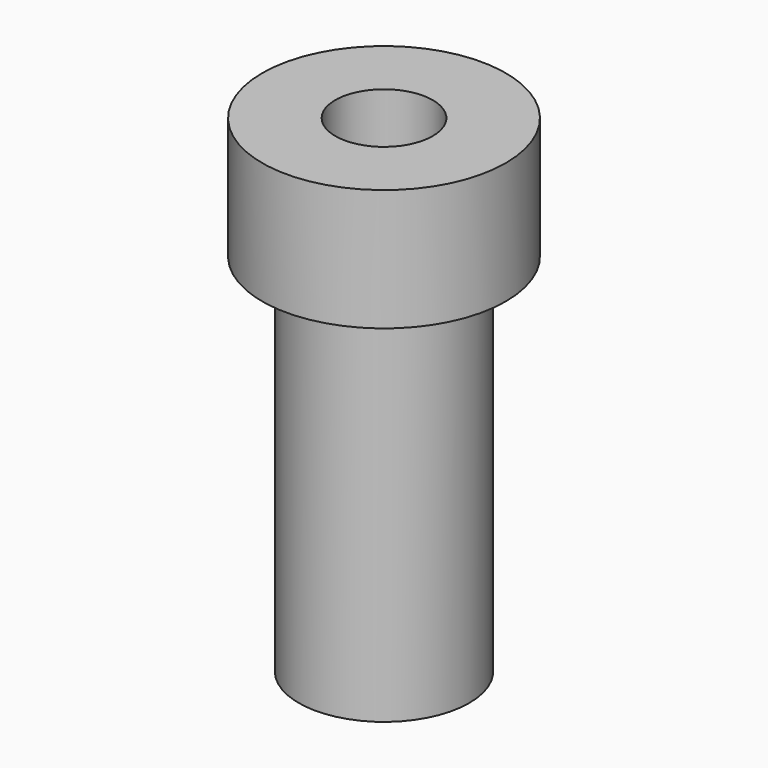
from build123d import *

# Parameters (mm, degrees)
F0_R     = 7
F0_R_2   = 4
F1_DEPTH = 30
F2_DEPTH = 20
F0_R_3   = 10
F3_DEPTH = 10


with BuildPart() as f1:
    # F0 (on Top) → F1 (new body)
    with BuildSketch(Plane.XY):
        Circle(F0_R)
        Circle(F0_R_2, mode=Mode.SUBTRACT)
        Circle(F0_R_2)
    extrude(amount=-F1_DEPTH)

    # F0 (on Top) → F2 (cut)
    with BuildSketch(Plane.XY):
        Circle(F0_R_2)
    extrude(amount=-F2_DEPTH, mode=Mode.SUBTRACT)

    # F0 (on Top) → F3 (join)
    with BuildSketch(Plane.XY):
        Circle(F0_R_3)
        Circle(F0_R, mode=Mode.SUBTRACT)
        Circle(F0_R)
        Circle(F0_R_2, mode=Mode.SUBTRACT)
    extrude(amount=F3_DEPTH)


solid = f1.part
